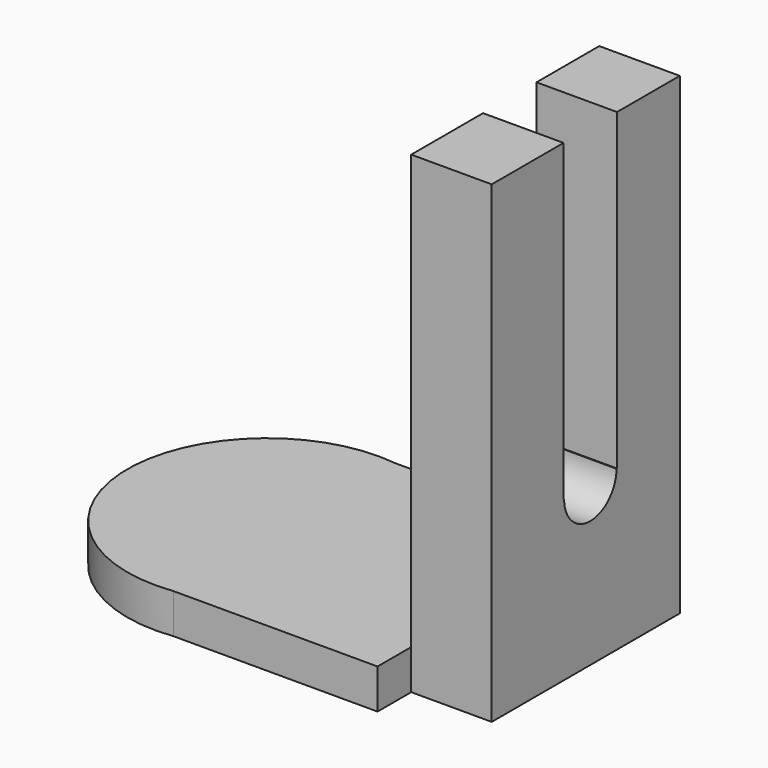
from build123d import *

# Parameters (mm, degrees)
F2_DEPTH = 11.684
F3_W     = 23.6796867102
F3_H     = 69.1230408847
F4_DEPTH = 25.4
F5_DEPTH = 102.108
F7_DEPTH = 25.4
F8_DEPTH = 110.49


with BuildPart() as f2:
    # F0 (on Top) → F2 (new body)
    with BuildSketch(Plane.XY):
        with BuildLine():
            Line((-39.3080597717, -40.7505296171), (20.7232069224, -40.7505296171))
            Line((20.7232069224, -40.7505296171), (20.7232069224, -28.3725112677))
            Line((20.7232069224, -28.3725112677), (44.4028936327, -28.3725112677))
            Line((44.4028936327, -28.3725112677), (44.4028936327, 40.7505296171))
            Line((44.4028936327, 40.7505296171), (-39.3080597717, 40.7505296171))
            ThreePointArc((-39.3080597717, 40.7505296171), (-85.4706790142, 0), (-39.3080597717, -40.7505296171))
        make_face()
    extrude(amount=F2_DEPTH)

    # F3 (on face) → F4 (join)
    with BuildSketch(Plane.XY.offset(11.684)):
        with Locations((32.5630502775, 6.1890091747)):
            Rectangle(F3_W, F3_H)
    extrude(amount=F4_DEPTH)

    # F5 (add): a face of the model
    f5_faces = [f2.faces().sort_by_distance(p)[0] for p in [
        (32.5630502775, 6.1890091747, 37.084),
    ]]
    extrude(f5_faces, amount=F5_DEPTH)

    # F6 (on face) → F7 (join)
    with BuildSketch(Plane(origin=(20.7232069224, 0, 0), x_dir=(0, -1, 0), z_dir=(-1, 0, 0))):
        with BuildLine():
            Line((1.971335616, 139.192), (-17.6932327449, 139.192))
            Line((-17.6932327449, 139.192), (-17.6932327449, 46.8966588378))
            Line((-17.6932327449, 46.8966588378), (-17.4947245486, 46.8966588378))
            ThreePointArc((-17.4947245486, 46.8966588378), (-7.8609485645, 37.2628828536), (1.7728274197, 46.8966588378))
            Line((1.7728274197, 46.8966588378), (1.971335616, 46.8966588378))
            Line((1.971335616, 46.8966588378), (1.971335616, 139.192))
        make_face()
    extrude(amount=F7_DEPTH)

    # F8 (cut): a face of the model
    f8_faces = [f2.faces().sort_by_distance(p)[0] for p in [
        (-4.6767930776, 7.8609485645, 89.3091389319),
    ]]
    extrude(f8_faces, amount=-F8_DEPTH, mode=Mode.SUBTRACT)


solid = f2.part
